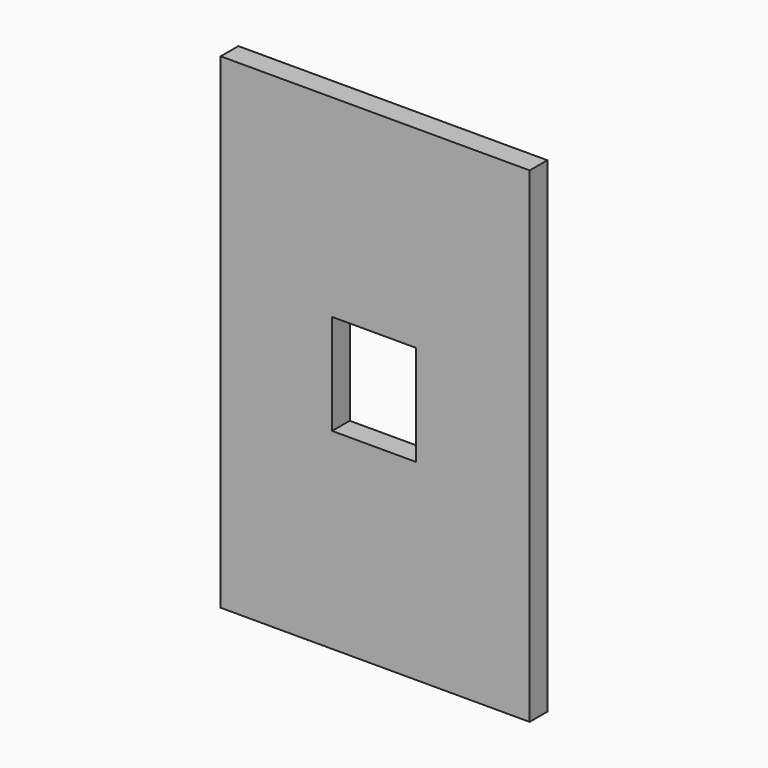
from build123d import *

# Parameters (mm, degrees)
F0_W     = 70
F0_H     = 110
F0_W_2   = 19.000001
F0_H_2   = 22.75
F1_DEPTH = 5
F2_DEPTH = 5


with BuildPart() as f1:
    # F0 (on Front) → F1 (new body)
    with BuildSketch(Plane.XZ):
        with Locations((0.375001, 0.39051)):
            Rectangle(F0_W, F0_H)
        with Locations((0.125, 0.247397)):
            Rectangle(F0_W_2, F0_H_2, mode=Mode.SUBTRACT)
    extrude(amount=F1_DEPTH)

    # F0 (on Front) → F2 (join)
    with BuildSketch(Plane.XZ):
        with Locations((0.375001, 0.39051)):
            Rectangle(F0_W, F0_H)
        with Locations((0.125, 0.247397)):
            Rectangle(F0_W_2, F0_H_2, mode=Mode.SUBTRACT)
    extrude(amount=F2_DEPTH)


solid = f1.part
